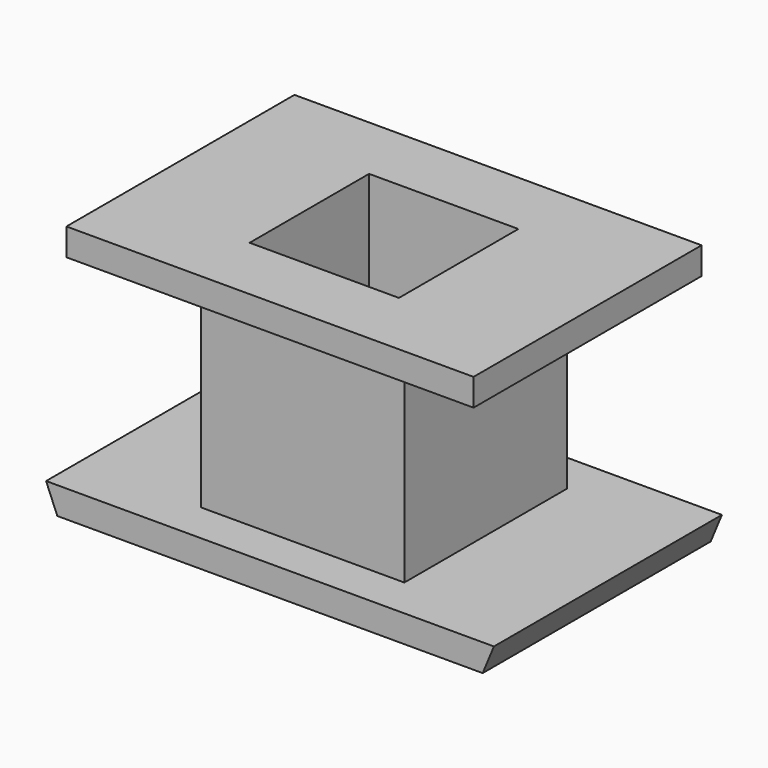
from build123d import *

# Parameters (mm, degrees)
F0_W     = 33
F0_H     = 21
F0_W_2   = 15
F0_H_2   = 15
F0_W_3   = 11
F0_H_3   = 11
F1_DEPTH = 2
F2_DEPTH = 17
F3_W     = 30
F3_H     = 21
F3_W_2   = 15
F3_H_2   = 15
F3_W_3   = 11
F3_H_3   = 11
F4_DEPTH = 2
F6_DEPTH = 25


with BuildPart() as f1:
    # F0 (on Top) → F1 (new body)
    with BuildSketch(Plane.XY):
        Rectangle(F0_W, F0_H)
        Rectangle(F0_W_2, F0_H_2, mode=Mode.SUBTRACT)
        Rectangle(F0_W_2, F0_H_2)
        Rectangle(F0_W_3, F0_H_3, mode=Mode.SUBTRACT)
    extrude(amount=F1_DEPTH)

    # F0 (on Top) → F2 (join)
    with BuildSketch(Plane.XY):
        Rectangle(F0_W_2, F0_H_2)
        Rectangle(F0_W_3, F0_H_3, mode=Mode.SUBTRACT)
    extrude(amount=F2_DEPTH)

    # F3 (on face) → F4 (join)
    with BuildSketch(Plane.XY.offset(17)):
        Rectangle(F3_W, F3_H)
        Rectangle(F3_W_2, F3_H_2, mode=Mode.SUBTRACT)
        Rectangle(F3_W_2, F3_H_2)
        Rectangle(F3_W_3, F3_H_3, mode=Mode.SUBTRACT)
    extrude(amount=F4_DEPTH)

    # F5 (on face) → F6 (cut)
    with BuildSketch(Plane.XZ.offset(10.5)):
        Polygon((-15.671573, 0), (-16.5, 2), (-16.5, 0), align=None)
        Polygon((16.5, 0), (16.5, 2), (15.671573, 0), align=None)
    extrude(amount=-F6_DEPTH, mode=Mode.SUBTRACT)


solid = f1.part
